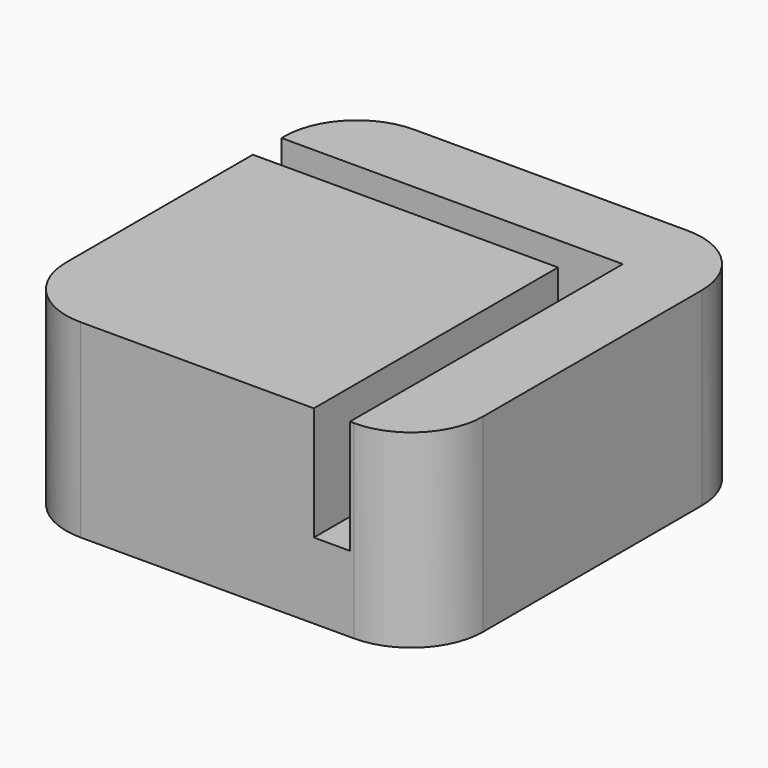
from build123d import *

# Parameters (mm, degrees)
PAD_DEPTH       = 10
POCKET_DEPTH    = 6
POCKET001_DEPTH = 2


with BuildPart() as part:
    # Sketch → Pad (new body)
    with BuildSketch(Plane.XY):
        with BuildLine():
            Line((-18.212601, -22), (-3.787399, -22))
            ThreePointArc((-3.787399, -22), (-1.109303, -20.890697), (0, -18.212601))
            Line((0, -18.212601), (0, -3.787399))
            ThreePointArc((0, -3.787399), (-1.109303, -1.109303), (-3.787399, 0))
            Line((-3.787399, 0), (-18.212601, 0))
            ThreePointArc((-18.212601, 0), (-20.890697, -1.109303), (-22, -3.787399))
            Line((-22, -3.787399), (-22, -18.212601))
            ThreePointArc((-22, -18.212601), (-20.890697, -20.890697), (-18.212601, -22))
        make_face()
    extrude(amount=PAD_DEPTH)

    # Sketch001 (on Face10 of Pad) → Pocket (cut)
    with BuildSketch(Plane.XY.offset(10)):
        Polygon((-4, -4), (-4, -24), (-5.9, -24), (-5.9, -5.9), (-24, -5.9), (-24, -4), align=None)
    extrude(amount=-POCKET_DEPTH, mode=Mode.SUBTRACT)

    # Sketch002 (on Face2 of Pocket) → Pocket001 (cut)
    with BuildSketch(Plane(origin=(0, 0, 0), x_dir=(1, 0, 0), z_dir=(0, 0, -1))):
        with BuildLine():
            Line((-21.5, 17.5), (-21.5, 4.5))
            ThreePointArc((-21.5, 4.5), (-20.328427, 1.671573), (-17.5, 0.5))
            Line((-17.5, 0.5), (-4.5, 0.5))
            ThreePointArc((-4.5, 0.5), (-1.671573, 1.671573), (-0.5, 4.5))
            Line((-0.5, 4.5), (-0.5, 17.5))
            ThreePointArc((-0.5, 17.5), (-1.671573, 20.328427), (-4.5, 21.5))
            Line((-4.5, 21.5), (-17.5, 21.5))
            ThreePointArc((-17.5, 21.5), (-20.328427, 20.328427), (-21.5, 17.5))
        make_face()
    extrude(amount=-POCKET001_DEPTH, mode=Mode.SUBTRACT)


solid = part.part
